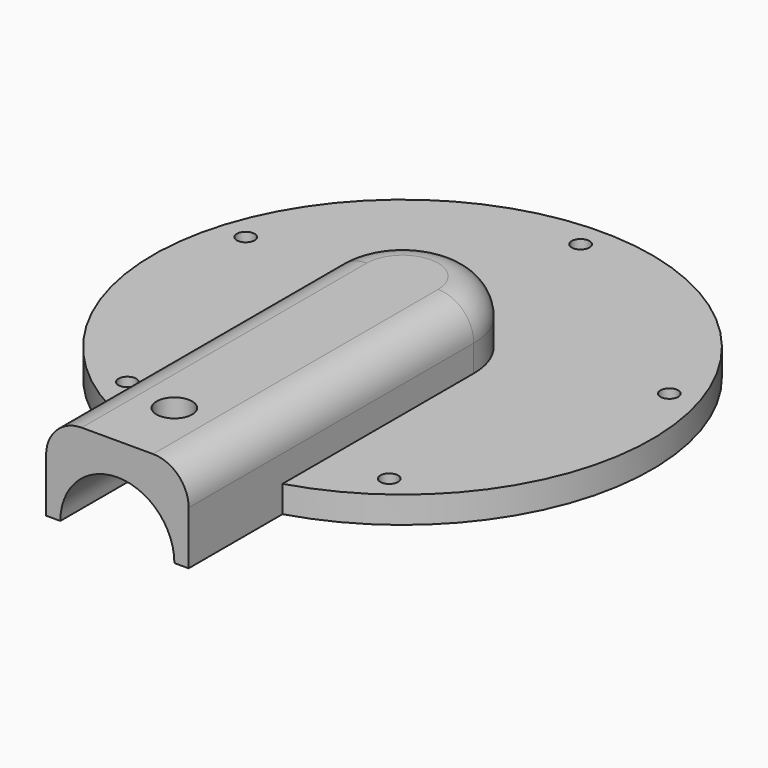
from build123d import *

# Parameters (mm, degrees)
SKETCH_R        = 1
PAD_DEPTH       = 3
PAD001_DEPTH    = 7
SKETCH002_R     = 6.4
POCKET_DEPTH    = 40
CHAMFER_SIZE    = 6
SKETCH003_R     = 2
POCKET001_DEPTH = 5
FILLET_R        = 4


with BuildPart() as part:
    # Sketch → Pad (new body)
    with BuildSketch(Plane.XY):
        with BuildLine():
            Line((-8, -40), (8, -40))
            Line((8, -40), (8, -26.832816))
            ThreePointArc((8, -26.832816), (0, 28), (-8, -26.832816))
            Line((-8, -26.832816), (-8, -40))
        make_face()
        with Locations((0, 25)):
            Circle(SKETCH_R, mode=Mode.SUBTRACT)
        with Locations((-23.776413, 7.725425)):
            Circle(SKETCH_R, mode=Mode.SUBTRACT)
        with Locations((-14.694631, -20.225425)):
            Circle(SKETCH_R, mode=Mode.SUBTRACT)
        with Locations((14.694631, -20.225425)):
            Circle(SKETCH_R, mode=Mode.SUBTRACT)
        with Locations((23.776413, 7.725425)):
            Circle(SKETCH_R, mode=Mode.SUBTRACT)
    extrude(amount=PAD_DEPTH)

    # Sketch001 (on Face11 of Pad) → Pad001 (join)
    with BuildSketch(Plane.XY.offset(3)):
        with BuildLine():
            Line((-8, -40), (8, -40))
            Line((8, -40), (8, 0))
            ThreePointArc((8, 0), (0, 8), (-8, 0))
            Line((-8, 0), (-8, -40))
        make_face()
    extrude(amount=PAD001_DEPTH)

    # Sketch002 (on Face1 of Pad001) → Pocket (cut)
    with BuildSketch(Plane.XZ.offset(40)):
        Circle(SKETCH002_R)
    extrude(amount=-POCKET_DEPTH, mode=Mode.SUBTRACT)

    # Chamfer
    chamfer_edges = [part.edges().sort_by_distance(p)[0] for p in [
        (0, 0, 0),
    ]]
    chamfer(chamfer_edges, length=CHAMFER_SIZE)

    # Sketch003 (on Face19 of Chamfer) → Pocket001 (cut)
    with BuildSketch(Plane.XY.offset(10)):
        with Locations((0, -32)):
            Circle(SKETCH003_R)
    extrude(amount=-POCKET001_DEPTH, mode=Mode.SUBTRACT)

    # Fillet
    fillet_edges = [part.edges().sort_by_distance(p)[0] for p in [
        (-8, -20, 10),
        (8, -20, 10),
        (0, 8, 10),
    ]]
    fillet(fillet_edges, radius=FILLET_R)


solid = part.part
